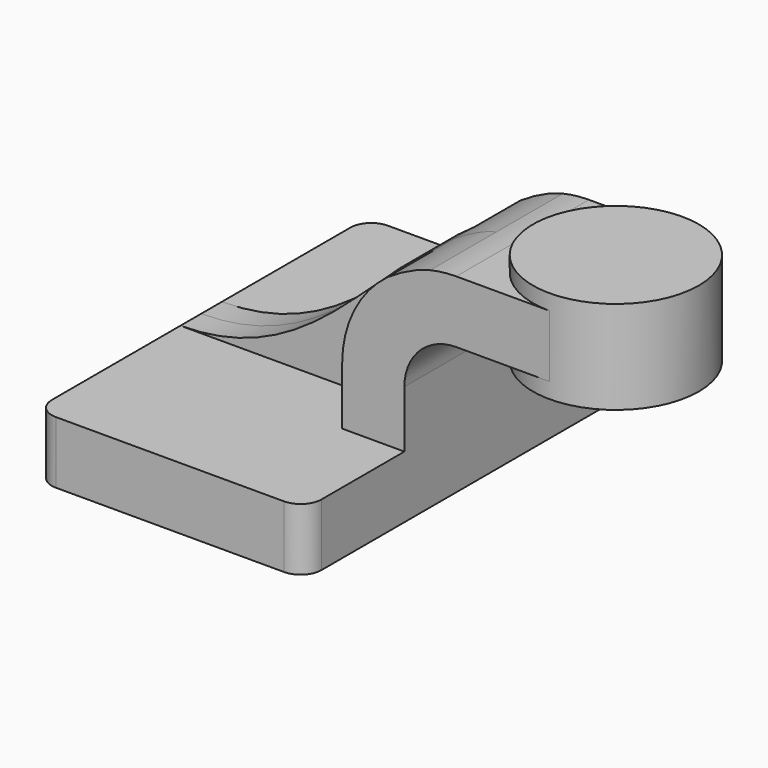
from build123d import *

# Parameters (mm, degrees)
F1_DEPTH = 63.5
F0_W     = 25.4
F0_H     = 19.05
F2_DEPTH = 25.4
F3_DEPTH = 7.9375
F5_R     = 6.35


with BuildPart() as f1:
    # F0 (on Front) → F1 (new body, symmetric)
    with BuildSketch(Plane.XZ):
        Polygon((-41.275, 9.525), (-41.275, -9.525), (41.275, -9.525), (41.275, 9.525), (22.225, 9.525), align=None)
    extrude(amount=F1_DEPTH, both=True)

    # F0 (on Front) → F2 (join, symmetric)
    with BuildSketch(Plane.XZ):
        with BuildLine():
            Line((22.225, 9.525), (41.275, 9.525))
            Line((41.275, 9.525), (41.275, 27.0002))
            ThreePointArc((41.275, 27.0002), (45.92468, 38.22552), (57.15, 42.8752))
            Line((57.15, 42.8752), (60.325, 42.8752))
            Line((60.325, 42.8752), (60.325, 61.9252))
            Line((60.325, 61.9252), (57.15, 61.9252))
            ThreePointArc((57.15, 61.9252), (53.137152, 61.693898), (49.177457, 61.003056))
            add(Edge.make_bspline(
                [(36.107399, 54.874284), (40.299297, 57.685987), (44.600471, 59.850046), (49.177457, 61.003056)],
                knots=[85.334769, 85.334769, 85.334769, 85.334769, 102.114273, 102.114273, 102.114273, 102.114273], degree=3))
            ThreePointArc((36.107399, 54.874284), (25.887655, 42.570087), (22.225, 27.0002))
            Line((22.225, 27.0002), (22.225, 9.525))
        make_face()
        with Locations((73.025, 52.4002)):
            Rectangle(F0_W, F0_H)
    extrude(amount=F2_DEPTH, both=True)

    # F0 (on Front) → F3 (join, symmetric)
    with BuildSketch(Plane.XZ):
        with BuildLine():
            add(Edge.make_bspline(
                [(-41.275, 9.525), (-3.70342, 9.525), (14.788851, 40.574934), (36.107399, 54.874284)],
                knots=[0, 0, 0, 0, 85.334769, 85.334769, 85.334769, 85.334769], degree=3))
            Line((-41.275, 9.525), (22.225, 9.525))
            Line((22.225, 9.525), (22.225, 27.0002))
            ThreePointArc((22.225, 27.0002), (25.887655, 42.570087), (36.107399, 54.874284))
        make_face()
    extrude(amount=F3_DEPTH, both=True)

    # F0 (on Front) → F4 (revolve)
    with BuildSketch(Plane.XZ):
        Polygon((85.725, 61.9252), (85.725, 42.8752), (85.725, 38.1), (111.125, 38.1), (111.125, 66.675), (85.725, 66.675), align=None)
    revolve(axis=Axis((85.725, 0, 52.4002), (0, 0, 1)))

    # F5
    f5_edges = [f1.edges().sort_by_distance(p)[0] for p in [
        (-41.275, -63.5, 0),
        (41.275, -63.5, 0),
        (-41.275, 63.5, 0),
        (41.275, 63.5, 0),
    ]]
    fillet(f5_edges, radius=F5_R)


solid = f1.part
